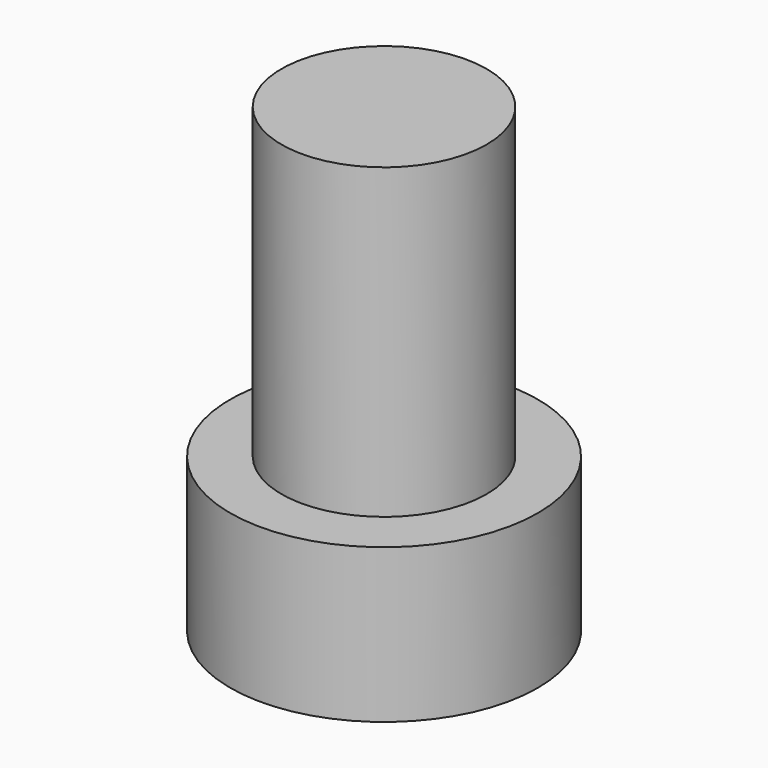
from build123d import *

# Parameters (mm, degrees)
SKETCH_R     = 15
PAD_DEPTH    = 15
SKETCH001_R  = 10
PAD001_DEPTH = 30


with BuildPart() as part:
    # Sketch → Pad (new body)
    with BuildSketch(Plane.XY):
        Circle(SKETCH_R)
    extrude(amount=PAD_DEPTH)

    # Sketch001 (on Face3 of Pad) → Pad001 (join)
    with BuildSketch(Plane.XY.offset(15)):
        Circle(SKETCH001_R)
    extrude(amount=PAD001_DEPTH)


solid = part.part
